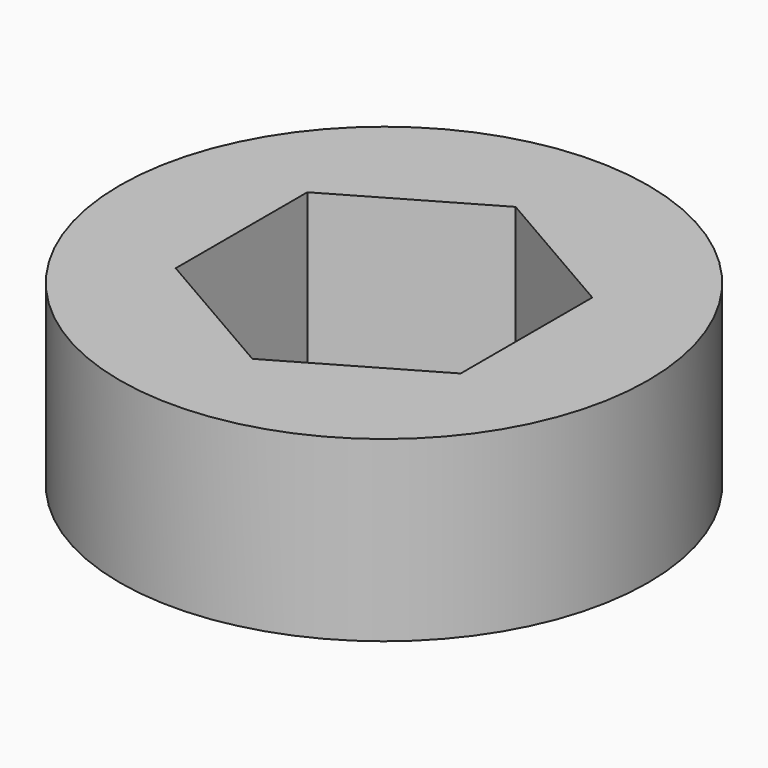
from build123d import *

# Parameters (mm, degrees)
F0_R     = 75.346886
F1_DEPTH = 50.8
F3_DEPTH = 50.8


with BuildPart() as f1:
    # F0 (on Top) → F1 (new body)
    with BuildSketch(Plane.XY):
        Circle(F0_R)
    extrude(amount=F1_DEPTH)

    # F2 (on face) → F3 (cut)
    with BuildSketch(Plane(origin=(0, 0, 0), x_dir=(1, 0, 0), z_dir=(0, 0, -1))):
        Polygon((-40.647693, 23.467956), (-40.647693, -23.467956), (0, -46.935913), (40.647693, -23.467956), (40.647693, 23.467956), (0, 46.935913), align=None)
    extrude(amount=-F3_DEPTH, mode=Mode.SUBTRACT)


solid = f1.part
